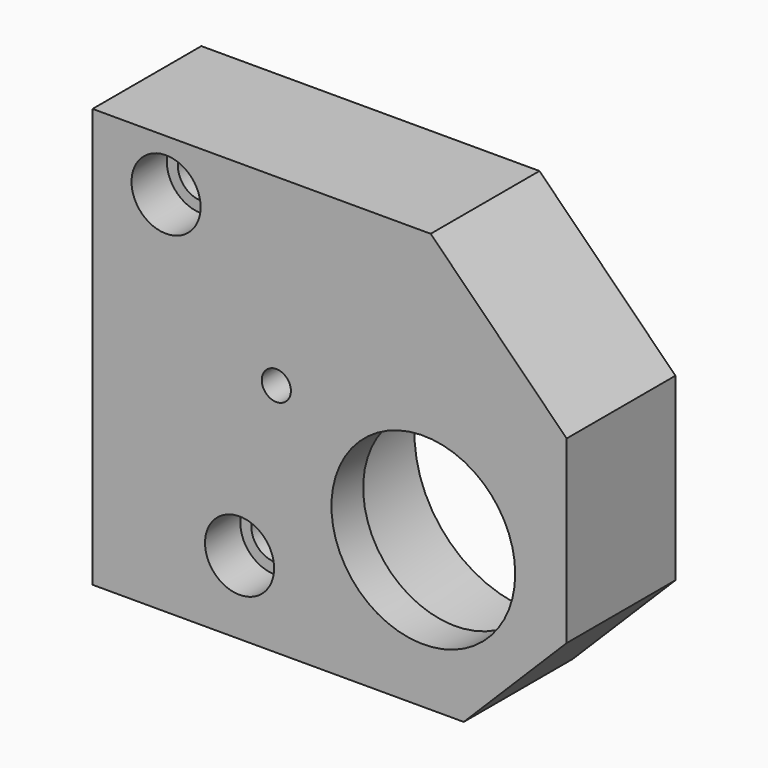
from build123d import *

# Parameters (mm, degrees)
SKETCH_R        = 3.2
SKETCH_R_2      = 1.98
SKETCH_R_3      = 12.5
PAD_DEPTH       = 18.5
SKETCH001_R     = 4.7
POCKET_DEPTH    = 6
SKETCH002_R     = 16
POCKET001_DEPTH = 13.1
SKETCH003_R     = 6
POCKET002_DEPTH = 55


with BuildPart() as part:
    # Sketch → Pad (new body)
    with BuildSketch(Plane.XZ):
        Polygon((0, 0), (0, -57), (50.5, -57), (64.5, -43), (64.5, -18.5), (46, 0), align=None)
        with Locations((10, -7)):
            Circle(SKETCH_R, mode=Mode.SUBTRACT)
        with Locations((20, -47)):
            Circle(SKETCH_R, mode=Mode.SUBTRACT)
        with Locations((25, -25)):
            Circle(SKETCH_R_2, mode=Mode.SUBTRACT)
        with Locations((45, -37)):
            Circle(SKETCH_R_3, mode=Mode.SUBTRACT)
    extrude(amount=PAD_DEPTH)

    # Sketch001 → Pocket (cut)
    with BuildSketch(Plane.XZ.offset(18.5)):
        with Locations((10, -7)):
            Circle(SKETCH001_R)
        with Locations((20, -47)):
            Circle(SKETCH001_R)
    extrude(amount=-POCKET_DEPTH, mode=Mode.SUBTRACT)

    # Sketch002 → Pocket001 (cut)
    with BuildSketch(Plane(origin=(0, 0, 0), x_dir=(1, 0, 0), z_dir=(0, 1, 0))):
        with Locations((45, 37)):
            Circle(SKETCH002_R)
    extrude(amount=-POCKET001_DEPTH, mode=Mode.SUBTRACT)

    # Sketch003 → Pocket002 (cut)
    with BuildSketch(Plane(origin=(0, 0, 0), x_dir=(0, 0, -1), z_dir=(-1, 0, 0))):
        with Locations((18.5, 9.25)):
            Circle(SKETCH003_R)
    extrude(amount=-POCKET002_DEPTH, mode=Mode.SUBTRACT)


solid = part.part
